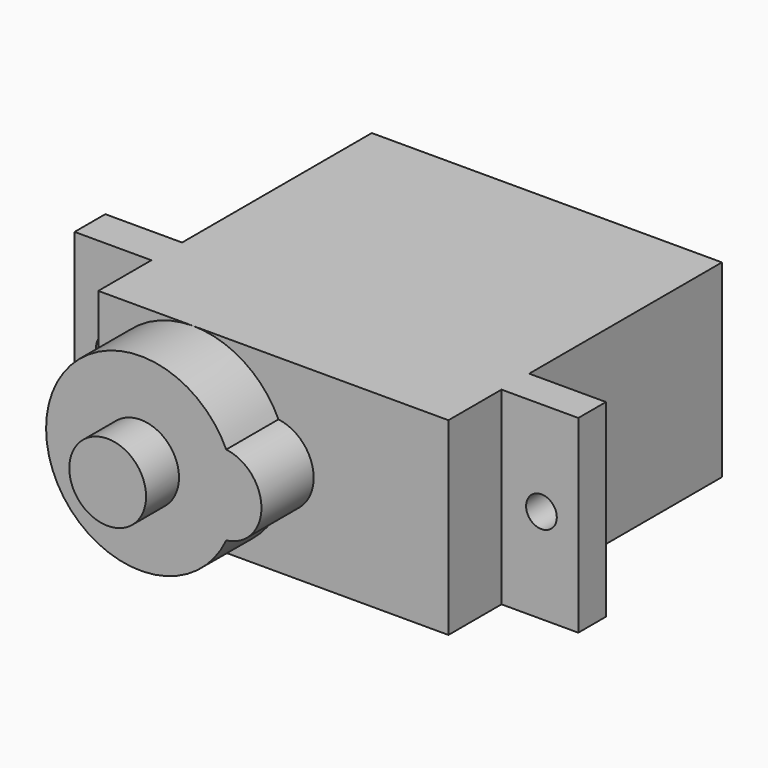
from build123d import *

# Parameters (mm, degrees)
F0_W      = 22.8
F0_H      = 12.31
F1_DEPTH  = 22.26
F2_R      = 6.155
F3_DEPTH  = 4.25
F4_R      = 2.625
F5_DEPTH  = 4.25
F6_W      = 2.5
F6_H      = 12.31
F7_DEPTH  = 5
F8_W      = 2.25
F8_H      = 12.31
F9_DEPTH  = 5
F10_R     = 2.5
F11_DEPTH = 2.68
F12_R     = 1
F13_DEPTH = 25


with BuildPart() as f1:
    # F0 (on Front) → F1 (new body)
    with BuildSketch(Plane.XZ):
        Rectangle(F0_W, F0_H)
    extrude(amount=F1_DEPTH)

    # F2 (on face) → F3 (join)
    with BuildSketch(Plane.XZ.offset(22.26)):
        with Locations((-5.245, 0)):
            Circle(F2_R)
    extrude(amount=F3_DEPTH)

    # F4 (on face) → F5 (join)
    with BuildSketch(Plane.XZ.offset(22.26)):
        Circle(F4_R)
    extrude(amount=F5_DEPTH)

    # F6 (on face) → F7 (join)
    with BuildSketch(Plane(origin=(-11.4, 0, 0), x_dir=(0, -1, 0), z_dir=(-1, 0, 0))):
        with Locations((16.69, 0)):
            Rectangle(F6_W, F6_H)
    extrude(amount=F7_DEPTH)

    # F8 (on face) → F9 (join)
    with BuildSketch(Plane.YZ.offset(11.4)):
        with Locations((-16.815, 0)):
            Rectangle(F8_W, F8_H)
    extrude(amount=F9_DEPTH)

    # F10 (on face) → F11 (join)
    with BuildSketch(Plane.XZ.offset(26.51)):
        with Locations((-5.245, 0)):
            Circle(F10_R)
    extrude(amount=F11_DEPTH)

    # F12 (on face) → F13 (cut)
    with BuildSketch(Plane.XZ.offset(17.94)):
        with Locations((-14, 0)):
            Circle(F12_R)
        with Locations((14, 0)):
            Circle(F12_R)
    extrude(amount=-F13_DEPTH, mode=Mode.SUBTRACT)


solid = f1.part
